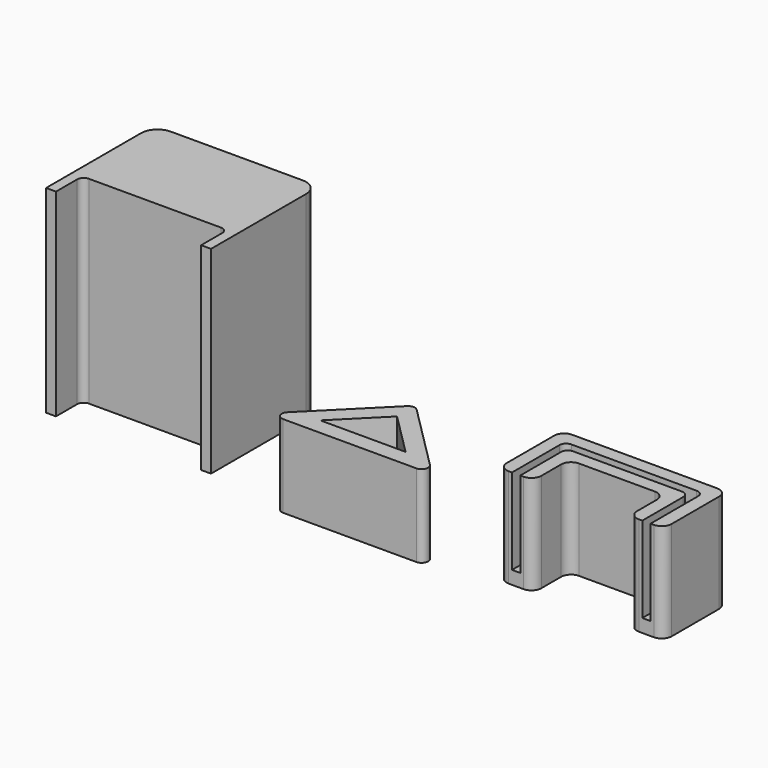
from build123d import *

# Parameters (mm, degrees)
F1_DEPTH  = 6
F2_DEPTH  = 25
F3_R      = 2
F5_DEPTH  = 60
F6_R      = 5
F7_R      = 2
F9_DEPTH  = 4
F10_DEPTH = 30
F11_R     = 3
F12_R     = 2


with BuildPart() as f1:
    # F0 (on Top) → F1 (new body)
    with BuildSketch(Plane.XY):
        Polygon((12.928932, 0), (0, 12.928932), (-12.928932, 0), align=None)
    extrude(amount=F1_DEPTH)

    # F0 (on Top) → F2 (join)
    with BuildSketch(Plane.XY):
        Polygon((25, -5), (0, 20), (-25, -5), align=None)
        Polygon((-12.928932, 0), (0, 12.928932), (12.928932, 0), align=None, mode=Mode.SUBTRACT)
    extrude(amount=F2_DEPTH)

    # F3
    f3_edges = [f1.edges().sort_by_distance(p)[0] for p in [
        (-25, -5, 12.5),
        (25, -5, 12.5),
        (0, 20, 12.5),
    ]]
    fillet(f3_edges, radius=F3_R)


with BuildPart() as f5:
    # F4 (on Top) → F5 (new body)
    with BuildSketch(Plane.XY):
        Polygon((-49.055441, 0), (-46.055441, 0), (-46.055441, 41), (-96.055441, 41), (-96.055441, 0), (-93.055441, 0), (-93.055441, 10), (-49.055441, 10), align=None)
    extrude(amount=F5_DEPTH)

    # F6
    f6_edges = [f5.edges().sort_by_distance(p)[0] for p in [
        (-96.055441, 41, 30),
        (-46.055441, 41, 30),
    ]]
    fillet(f6_edges, radius=F6_R)

    # F7
    f7_edges = [f5.edges().sort_by_distance(p)[0] for p in [
        (-93.055441, 10, 30),
        (-49.055441, 10, 30),
    ]]
    fillet(f7_edges, radius=F7_R)


with BuildPart() as f9:
    # F8 (on Top) → F9 (new body)
    with BuildSketch(Plane.XY):
        Polygon((87.19847, 20), (45.19847, 20), (45.19847, 0), (47.69847, 0), (47.69847, 17.5), (84.69847, 17.5), (84.69847, 0), (87.19847, 0), align=None)
    extrude(amount=F9_DEPTH)

    # F8 (on Top) → F10 (join)
    with BuildSketch(Plane.XY):
        Polygon((45.19847, 0), (45.19847, 20), (87.19847, 20), (87.19847, 0), (91.19847, 0), (91.19847, 24), (41.19847, 24), (41.19847, 0), align=None)
        Polygon((47.69847, 17.5), (47.69847, 0), (51.69847, 0), (51.69847, 13.5), (80.69847, 13.5), (80.69847, 0), (84.69847, 0), (84.69847, 17.5), align=None)
    extrude(amount=F10_DEPTH)

    # F11
    f11_edges = [f9.edges().sort_by_distance(p)[0] for p in [
        (91.19847, 24, 15),
        (41.19847, 24, 15),
        (51.69847, 13.5, 15),
        (80.69847, 13.5, 15),
        (41.19847, 0, 15),
        (51.69847, 0, 15),
        (80.69847, 0, 15),
        (91.19847, 0, 15),
    ]]
    fillet(f11_edges, radius=F11_R)

    # F12
    f12_edges = [f9.edges().sort_by_distance(p)[0] for p in [
        (45.19847, 20, 17),
        (47.69847, 17.5, 17),
        (87.19847, 20, 17),
        (84.69847, 17.5, 17),
    ]]
    fillet(f12_edges, radius=F12_R)


solid = Compound([f1.part, f5.part, f9.part])
